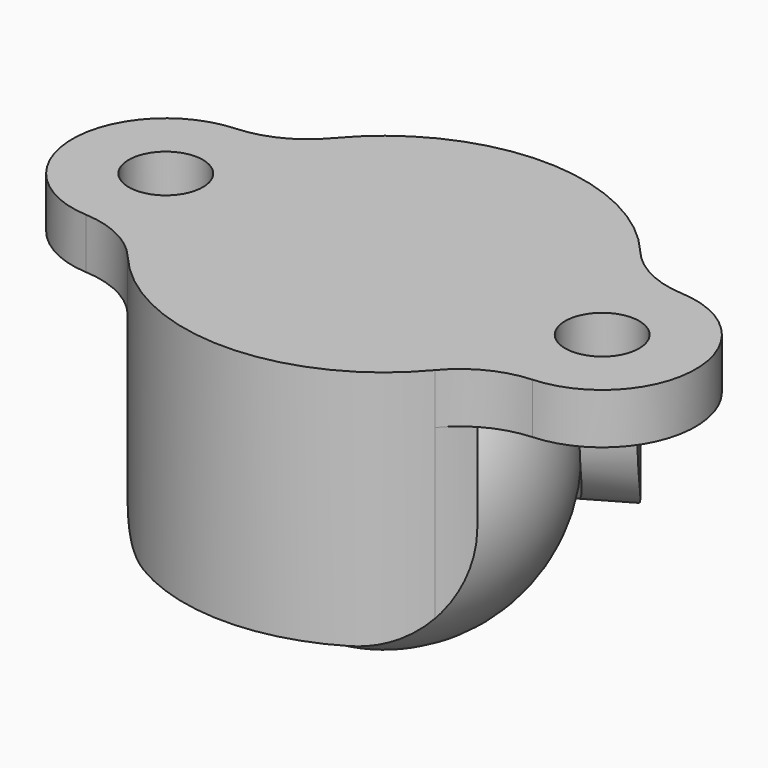
from build123d import *

# Parameters (mm, degrees)
F0_R     = 1.143
F1_DEPTH = 1.56
F3_DEPTH = 5.9
F7_R     = 3


with BuildPart() as f1:
    # F0 (on Top) → F1 (new body)
    with BuildSketch(Plane.XY):
        with BuildLine():
            ThreePointArc((6.8858420035, 2.8798402654), (5.7022933213, 3.1937226824), (4.7427446214, 3.954364482))
            ThreePointArc((4.7427446214, 3.954364482), (0, 6.175), (-4.7427446214, 3.954364482))
            ThreePointArc((-4.7427446214, 3.954364482), (-5.7022933213, 3.1937226824), (-6.8858420035, 2.8798402654))
            ThreePointArc((-6.8858420035, 2.8798402654), (-9.615, 0), (-6.8858420035, -2.8798402654))
            ThreePointArc((-6.8858420035, -2.8798402654), (-5.7022933213, -3.1937226824), (-4.7427446214, -3.954364482))
            ThreePointArc((-4.7427446214, -3.954364482), (0, -6.175), (4.7427446214, -3.954364482))
            ThreePointArc((4.7427446214, -3.954364482), (5.7022933213, -3.1937226824), (6.8858420035, -2.8798402654))
            ThreePointArc((6.8858420035, -2.8798402654), (9.615, 0), (6.8858420035, 2.8798402654))
        make_face()
        with Locations((-6.731, 0)):
            Circle(F0_R, mode=Mode.SUBTRACT)
        with Locations((6.731, 0)):
            Circle(F0_R, mode=Mode.SUBTRACT)
    extrude(amount=-F1_DEPTH)

    # F2 (on face) → F3 (join)
    with BuildSketch(Plane(origin=(0, 0, -1.56), x_dir=(1, 0, 0), z_dir=(0, 0, -1))):
        with BuildLine():
            Line((4.1244459855, 2.38125), (5.3477068684, 3.0875))
            ThreePointArc((5.3477068684, 3.0875), (5.0638094676, 3.5339013393), (4.7427446214, 3.954364482))
            ThreePointArc((4.7427446214, 3.954364482), (0, 6.175), (-4.7427446214, 3.954364482))
            ThreePointArc((-4.7427446214, 3.954364482), (-5.0638094676, 3.5339013393), (-5.3477068684, 3.0875))
            Line((-5.3477068684, 3.0875), (-4.1244459855, 2.38125))
            ThreePointArc((-4.1244459855, 2.38125), (0, 4.7625), (4.1244459855, 2.38125))
        make_face()
    extrude(amount=F3_DEPTH)

    # F4: F1 across plane


with BuildPart() as f1_1:
    add(f1.part)
    add(f1.part.mirror(Plane.XZ))

    # F7
    f7_edges = [f1_1.edges().sort_by_distance(p)[0] for p in [
        (4.736076, 2.734375, -7.46),
        (4.736076, -2.734375, -7.46),
        (-4.736076, 2.734375, -7.46),
        (-4.736076, -2.734375, -7.46),
    ]]
    fillet(f7_edges, radius=F7_R)


with BuildPart() as f6:
    # F5 (on Right) → F6 (revolve)
    with BuildSketch(Plane.YZ):
        with BuildLine():
            Line((0, -0.615), (0, -10.14))
            ThreePointArc((0, -10.14), (4.7625, -5.3775), (0, -0.615))
        make_face()
    revolve(axis=Axis((0, 0, -5.3775), (0, 0, 1)))


solid = Compound([f1_1.part, f6.part])
